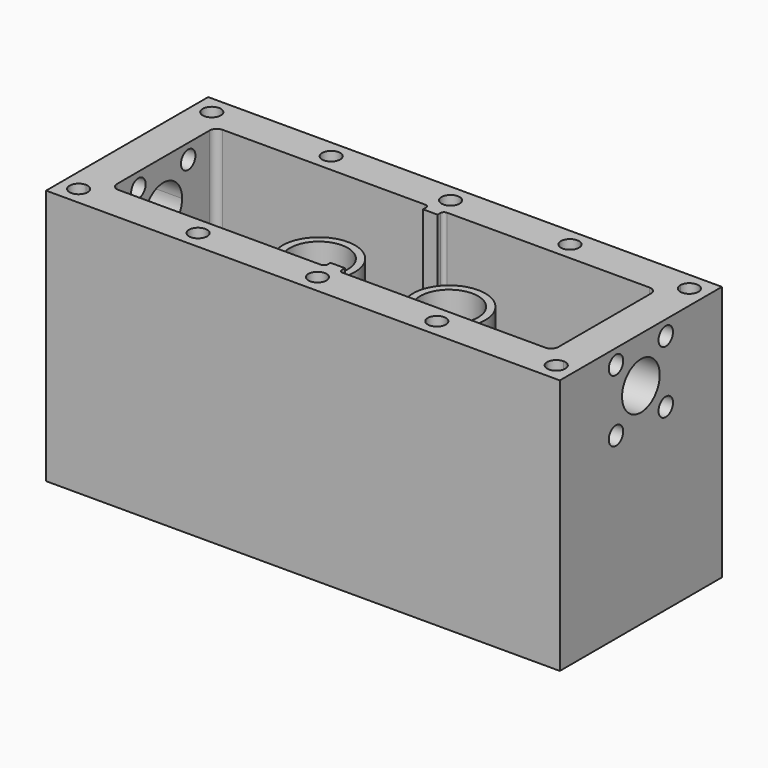
from build123d import *

# Parameters (mm, degrees)
F0_W      = 71
F0_H      = 28
F0_R      = 5
F0_W_2    = 2
F0_H_2    = 1
F0_H_3    = 16
F1_DEPTH  = 5
F2_DEPTH  = 35.35
F3_DEPTH  = 17.5
F4_R      = 0.5
F5_DEPTH  = 5
F6_W      = 0.5
F6_H      = 18
F11_DEPTH = 12
F12_R     = 1
F9_R      = 1.25
F14_DEPTH = 5
F13_R     = 1.25
F15_DEPTH = 5


with BuildPart() as f1:
    # F0 (on Top) → F1 (new body)
    with BuildSketch(Plane.XY):
        Rectangle(F0_W, F0_H)
        Polygon((-1, -9), (-30.5, -9), (-30.5, 9), (-1, 9), (1, 9), (30.5, 9), (30.5, -9), (1, -9), align=None, mode=Mode.SUBTRACT)
        Rectangle(F0_W, F0_H)
        Polygon((-1, -9), (-30.5, -9), (-30.5, 9), (-1, 9), (1, 9), (30.5, 9), (30.5, -9), (1, -9), align=None, mode=Mode.SUBTRACT)
        Polygon((-30.5, 9), (-30.5, -9), (-1, -9), (-1, -8), (-1, 8), (-1, 9), align=None)
        with Locations((-20.4, 0)):
            Circle(F0_R, mode=Mode.SUBTRACT)
        with Locations((-9, 0)):
            Circle(F0_R, mode=Mode.SUBTRACT)
        Polygon((1, -8), (1, -9), (30.5, -9), (30.5, 9), (1, 9), (1, 8), align=None)
        with Locations((9, 0)):
            Circle(F0_R, mode=Mode.SUBTRACT)
        with Locations((20.4, 0)):
            Circle(F0_R, mode=Mode.SUBTRACT)
        with Locations((-20.4, 0)):
            Circle(F0_R)
        with Locations((-9, 0)):
            Circle(F0_R)
        with Locations((9, 0)):
            Circle(F0_R)
        with Locations((20.4, 0)):
            Circle(F0_R)
        with Locations((0, 8.5)):
            Rectangle(F0_W_2, F0_H_2)
        with Locations((0, -8.5)):
            Rectangle(F0_W_2, F0_H_2)
        Rectangle(F0_W_2, F0_H_3)
        with Locations((0, -8.5)):
            Rectangle(F0_W_2, F0_H_2)
    extrude(amount=F1_DEPTH)

    # F0 (on Top) → F2 (join)
    with BuildSketch(Plane.XY):
        Rectangle(F0_W, F0_H)
        Polygon((-1, -9), (-30.5, -9), (-30.5, 9), (-1, 9), (1, 9), (30.5, 9), (30.5, -9), (1, -9), align=None, mode=Mode.SUBTRACT)
        with Locations((0, 8.5)):
            Rectangle(F0_W_2, F0_H_2)
        with Locations((0, -8.5)):
            Rectangle(F0_W_2, F0_H_2)
        with Locations((0, -8.5)):
            Rectangle(F0_W_2, F0_H_2)
    extrude(amount=F2_DEPTH)

    # F0 (on Top) → F3 (join)
    with BuildSketch(Plane.XY):
        Rectangle(F0_W_2, F0_H_3)
    extrude(amount=F3_DEPTH)

    # F4
    f4_edges = [f1.edges().sort_by_distance(p)[0] for p in [
        (-1, 9, 20.175),
        (1, 9, 20.175),
        (-1, -9, 20.175),
        (1, -9, 20.175),
    ]]
    fillet(f4_edges, radius=F4_R)

    # F0 (on Top) → F5 (cut)
    with BuildSketch(Plane.XY):
        with Locations((-20.4, 0)):
            Circle(F0_R)
        with Locations((20.4, 0)):
            Circle(F0_R)
        with Locations((-9, 0)):
            Circle(F0_R)
        with Locations((9, 0)):
            Circle(F0_R)
    extrude(amount=F5_DEPTH, mode=Mode.SUBTRACT)

    # F6 (on Front) → F7 (revolve)
    with BuildSketch(Plane.XZ):
        Polygon((-14, 30), (-14, 0), (-13, 0), (-13, 18), (-13, 23), (-13, 30), align=None)
        Polygon((-13, 23), (-13, 18), (-12.5, 18), (-12.175, 18), (-12.175, 23), align=None)
        with Locations((-12.75, 9)):
            Rectangle(F6_W, F6_H)
    revolve(axis=Axis((-9, 0, 20.5), (0, 0, -1)))

    # F6 (on Front) → F8 (revolve)
    with BuildSketch(Plane.XZ):
        Polygon((12.5, 18), (13, 18), (13, 23), (12.175, 23), (12.175, 18), align=None)
        Polygon((13, 23), (13, 18), (13, 0), (14, 0), (14, 30), (13, 30), align=None)
        with Locations((12.75, 9)):
            Rectangle(F6_W, F6_H)
    revolve(axis=Axis((9, 0, 20.5), (0, 0, -1)))

    # F10 (on face) → F11 (cut)
    with BuildSketch(Plane.XY.offset(35.35)):
        with BuildLine():
            ThreePointArc((-33, 10.25), (-32.1161165235, 10.6161165235), (-31.75, 11.5))
            Line((-31.75, 11.5), (-33, 11.5))
            Line((-33, 11.5), (-33, 10.25))
        make_face()
        with BuildLine():
            Line((-33, 11.5), (-31.75, 11.5))
            ThreePointArc((-31.75, 11.5), (-33.8838834765, 12.3838834765), (-33, 10.25))
            Line((-33, 10.25), (-33, 11.5))
        make_face()
        with BuildLine():
            ThreePointArc((-15.25, 11.5), (-16.5, 12.75), (-17.75, 11.5))
            Line((-17.75, 11.5), (-15.25, 11.5))
        make_face()
        with BuildLine():
            Line((-15.25, 11.5), (-17.75, 11.5))
            ThreePointArc((-17.75, 11.5), (-16.5, 10.25), (-15.25, 11.5))
        make_face()
        with BuildLine():
            ThreePointArc((1.25, 11.5), (0, 12.75), (-1.25, 11.5))
            Line((-1.25, 11.5), (1.25, 11.5))
        make_face()
        with BuildLine():
            Line((1.25, 11.5), (-1.25, 11.5))
            ThreePointArc((-1.25, 11.5), (0, 10.25), (1.25, 11.5))
        make_face()
        with BuildLine():
            ThreePointArc((17.75, 11.5), (16.5, 12.75), (15.25, 11.5))
            Line((15.25, 11.5), (17.75, 11.5))
        make_face()
        with BuildLine():
            Line((17.75, 11.5), (15.25, 11.5))
            ThreePointArc((15.25, 11.5), (16.5, 10.25), (17.75, 11.5))
        make_face()
        with BuildLine():
            Line((33, 11.5), (31.75, 11.5))
            ThreePointArc((31.75, 11.5), (32.1161165235, 10.6161165235), (33, 10.25))
            Line((33, 10.25), (33, 11.5))
        make_face()
        with BuildLine():
            ThreePointArc((34.25, 11.5), (33, 12.75), (31.75, 11.5))
            Line((31.75, 11.5), (33, 11.5))
            Line((33, 11.5), (33, 10.25))
            ThreePointArc((33, 10.25), (33.8838834765, 10.6161165235), (34.25, 11.5))
        make_face()
        with BuildLine():
            ThreePointArc((-31.75, -11.5), (-32.1161165235, -10.6161165235), (-33, -10.25))
            Line((-33, -10.25), (-33, -11.5))
            Line((-33, -11.5), (-31.75, -11.5))
        make_face()
        with BuildLine():
            Line((-33, -11.5), (-33, -10.25))
            ThreePointArc((-33, -10.25), (-33.8838834765, -12.3838834765), (-31.75, -11.5))
            Line((-31.75, -11.5), (-33, -11.5))
        make_face()
        with BuildLine():
            ThreePointArc((-15.25, -11.5), (-16.5, -10.25), (-17.75, -11.5))
            Line((-17.75, -11.5), (-15.25, -11.5))
        make_face()
        with BuildLine():
            Line((-15.25, -11.5), (-17.75, -11.5))
            ThreePointArc((-17.75, -11.5), (-16.5, -12.75), (-15.25, -11.5))
        make_face()
        with BuildLine():
            ThreePointArc((1.25, -11.5), (0, -10.25), (-1.25, -11.5))
            Line((-1.25, -11.5), (1.25, -11.5))
        make_face()
        with BuildLine():
            Line((1.25, -11.5), (-1.25, -11.5))
            ThreePointArc((-1.25, -11.5), (0, -12.75), (1.25, -11.5))
        make_face()
        with BuildLine():
            ThreePointArc((17.75, -11.5), (16.5, -10.25), (15.25, -11.5))
            Line((15.25, -11.5), (17.75, -11.5))
        make_face()
        with BuildLine():
            Line((17.75, -11.5), (15.25, -11.5))
            ThreePointArc((15.25, -11.5), (16.5, -12.75), (17.75, -11.5))
        make_face()
        with BuildLine():
            Line((33, -11.5), (33, -10.25))
            ThreePointArc((33, -10.25), (32.1161165235, -10.6161165235), (31.75, -11.5))
            Line((31.75, -11.5), (33, -11.5))
        make_face()
        with BuildLine():
            ThreePointArc((34.25, -11.5), (33.8838834765, -10.6161165235), (33, -10.25))
            Line((33, -10.25), (33, -11.5))
            Line((33, -11.5), (31.75, -11.5))
            ThreePointArc((31.75, -11.5), (33, -12.75), (34.25, -11.5))
        make_face()
    extrude(amount=-F11_DEPTH, mode=Mode.SUBTRACT)

    # F12
    f12_edges = [f1.edges().sort_by_distance(p)[0] for p in [
        (-30.5, -9, 20.175),
        (-30.5, 9, 20.175),
        (30.5, 9, 20.175),
        (30.5, -9, 20.175),
    ]]
    fillet(f12_edges, radius=F12_R)

    # F9 (on face) → F14 (cut)
    with BuildSketch(Plane(origin=(-35.5, 0, 0), x_dir=(0, -1, 0), z_dir=(-1, 0, 0))):
        with BuildLine():
            Line((0, 29), (3.25, 29))
            ThreePointArc((3.25, 29), (2.2980970389, 31.2980970389), (0, 32.25))
            Line((0, 32.25), (0, 29))
        make_face()
        with BuildLine():
            ThreePointArc((0, 25.75), (2.2980970389, 26.7019029611), (3.25, 29))
            Line((3.25, 29), (0, 29))
            Line((0, 29), (0, 25.75))
        make_face()
        with BuildLine():
            Line((0, 29), (0, 32.25))
            ThreePointArc((0, 32.25), (-2.2980970389, 31.2980970389), (-3.25, 29))
            Line((-3.25, 29), (0, 29))
        make_face()
        with BuildLine():
            ThreePointArc((-3.25, 29), (-2.2980970389, 26.7019029611), (0, 25.75))
            Line((0, 25.75), (0, 29))
            Line((0, 29), (-3.25, 29))
        make_face()
        with Locations((-4.3, 33.3)):
            Circle(F9_R)
        with Locations((-4.3, 24.7)):
            Circle(F9_R)
        with Locations((4.3, 33.3)):
            Circle(F9_R)
        with Locations((4.3, 24.7)):
            Circle(F9_R)
    extrude(amount=-F14_DEPTH, mode=Mode.SUBTRACT)

    # F13 (on face) → F15 (cut)
    with BuildSketch(Plane.YZ.offset(35.5)):
        with BuildLine():
            Line((-3.25, 29), (3.25, 29))
            ThreePointArc((3.25, 29), (0, 32.25), (-3.25, 29))
        make_face()
        with BuildLine():
            ThreePointArc((-3.25, 29), (0, 25.75), (3.25, 29))
            Line((3.25, 29), (-3.25, 29))
        make_face()
        with Locations((-4.3, 33.3)):
            Circle(F13_R)
        with Locations((-4.3, 24.7)):
            Circle(F13_R)
        with Locations((4.3, 33.3)):
            Circle(F13_R)
        with Locations((4.3, 24.7)):
            Circle(F13_R)
    extrude(amount=-F15_DEPTH, mode=Mode.SUBTRACT)


solid = f1.part
